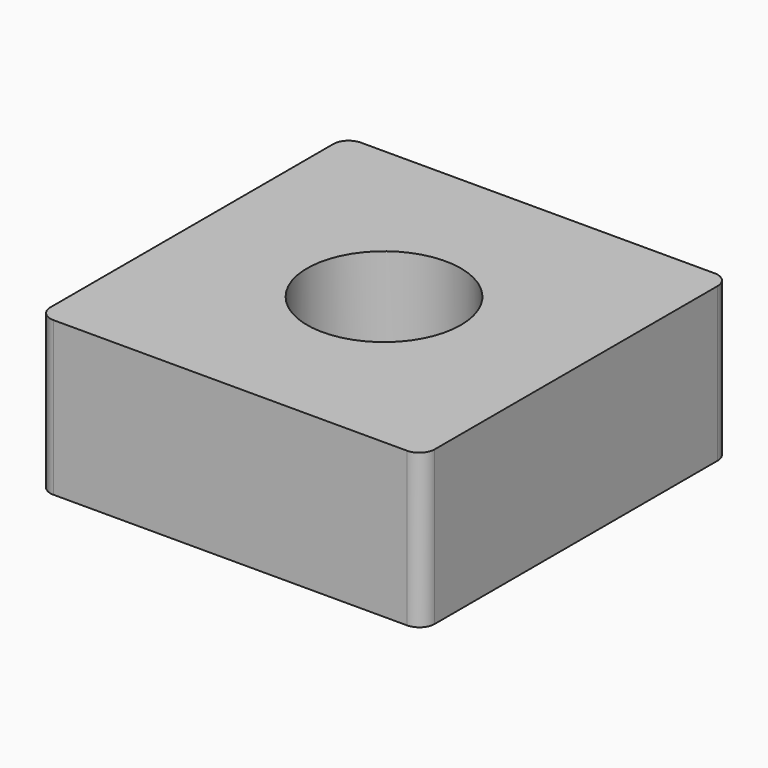
from build123d import *

# Parameters (mm, degrees)
F0_W     = 50
F0_H     = 50
F1_DEPTH = 20
F2_R     = 10
F3_DEPTH = 20.001
F4_R     = 2


with BuildPart() as f1:
    # F0 (on Top) → F1 (new body)
    with BuildSketch(Plane.XY):
        Rectangle(F0_W, F0_H)
    extrude(amount=F1_DEPTH)

    # F2 (on face) → F3 (cut, through all)
    with BuildSketch(Plane.XY.offset(20)):
        Circle(F2_R)
    extrude(amount=-F3_DEPTH, mode=Mode.SUBTRACT)

    # F4
    f4_edges = [f1.edges().sort_by_distance(p)[0] for p in [
        (-25, -25, 10),
        (25, -25, 10),
        (-25, 25, 10),
        (25, 25, 10),
    ]]
    fillet(f4_edges, radius=F4_R)


solid = f1.part
